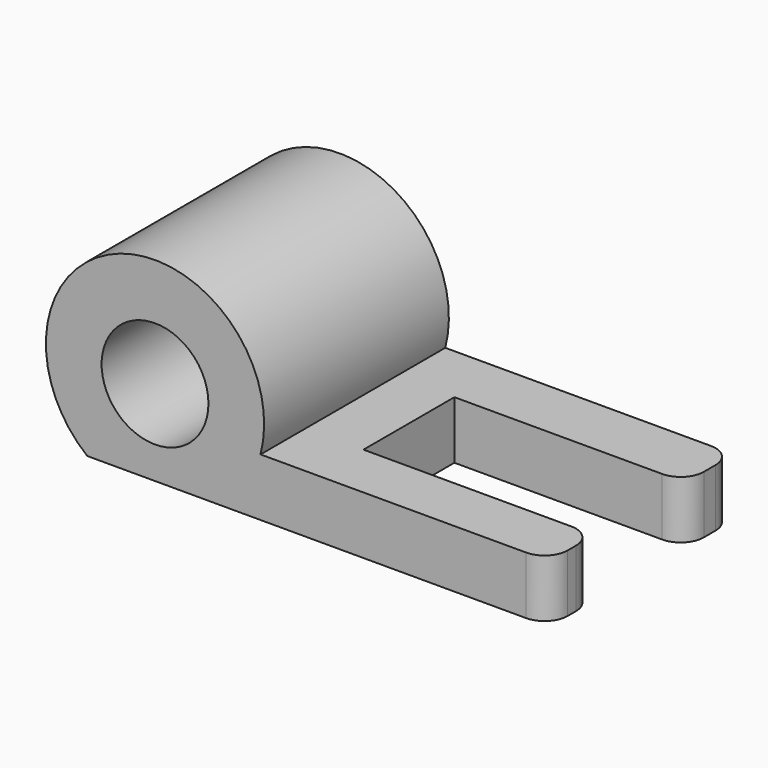
from build123d import *

# Parameters (mm, degrees)
F0_R     = 11.7502279649
F1_DEPTH = 25.4
F2_DEPTH = 25.4
F3_W     = 50.8
F3_H     = 24.9936
F4_DEPTH = 25.4
F5_R     = 5.08
F6_R     = 5.08


with BuildPart() as f1:
    # F0 (on Front) → F1 (new body)
    with BuildSketch(Plane.XZ):
        with BuildLine():
            ThreePointArc((-21.9455999374, 0), (-52.740892143, 28.8858766168), (-60.0455999374, -12.7))
            Line((-60.0455999374, -12.7), (41.5544000626, -12.7))
            Line((41.5544000626, -12.7), (41.5544000626, 0))
            Line((41.5544000626, 0), (-21.9455999374, 0))
        make_face()
        with Locations((-45.1517072222, 6.1183218543)):
            Circle(F0_R, mode=Mode.SUBTRACT)
    extrude(amount=F1_DEPTH)

    # F2 (add): a face of the model
    f2_faces = [f1.faces().sort_by_distance(p)[0] for p in [
        (-23.82283695, 0, 2.1208901059),
    ]]
    extrude(f2_faces, amount=F2_DEPTH)

    # F3 (on face) → F4 (cut)
    with BuildSketch(Plane.XY):
        with Locations((16.1544000626, -0.4653680826)):
            Rectangle(F3_W, F3_H)
    extrude(amount=-F4_DEPTH, mode=Mode.SUBTRACT)

    # F5
    f5_edges = [f1.edges().sort_by_distance(p)[0] for p in [
        (41.5544, 12.031432, -6.35),
        (41.5544, 25.4, -6.35),
    ]]
    fillet(f5_edges, radius=F5_R)

    # F6
    f6_edges = [f1.edges().sort_by_distance(p)[0] for p in [
        (41.5544, -12.962168, -6.35),
        (41.5544, -25.4, -6.35),
    ]]
    fillet(f6_edges, radius=F6_R)


solid = f1.part
